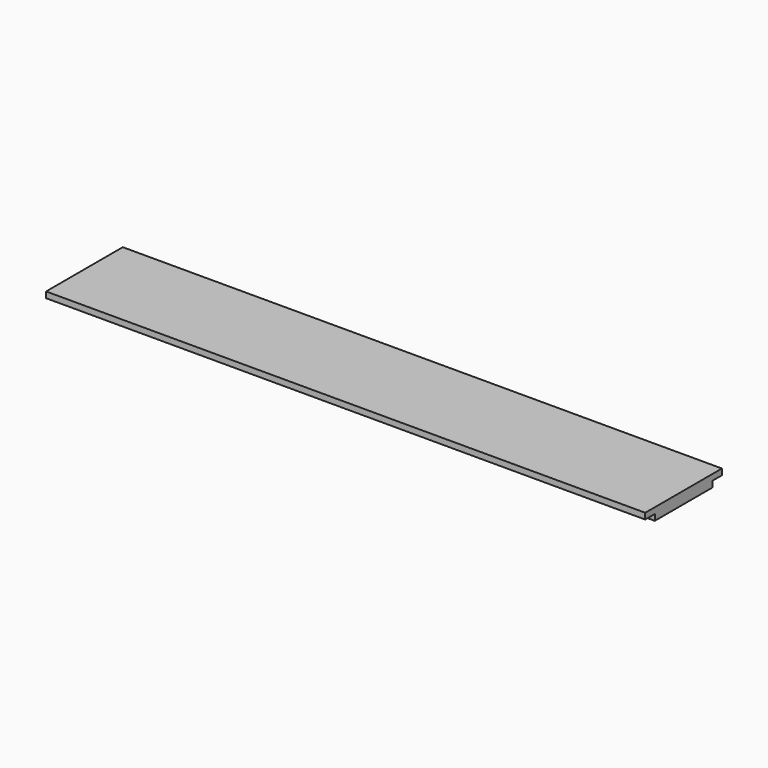
from build123d import *

# Parameters (mm, degrees)
BOX_W        = 100
BOX_H        = 16
BOX_DEPTH    = 1
BOX001_W     = 100
BOX001_H     = 12
BOX001_DEPTH = 1


with BuildPart() as f_16mm:
    # Box → Box (new body)
    with BuildSketch(Plane.XY.offset(1)):
        with Locations((50, 8)):
            Rectangle(BOX_W, BOX_H)
    extrude(amount=BOX_DEPTH)


with BuildPart() as k8200_profile:
    # Box001 → Box001 (new body)
    with BuildSketch(Plane(origin=(0, 2, 0), x_dir=(1, 0, 0), z_dir=(0, 0, 1))):
        with Locations((50, 6)):
            Rectangle(BOX001_W, BOX001_H)
    extrude(amount=BOX001_DEPTH)

    # Fusion: union 16mm
    add(f_16mm.part)


solid = k8200_profile.part
